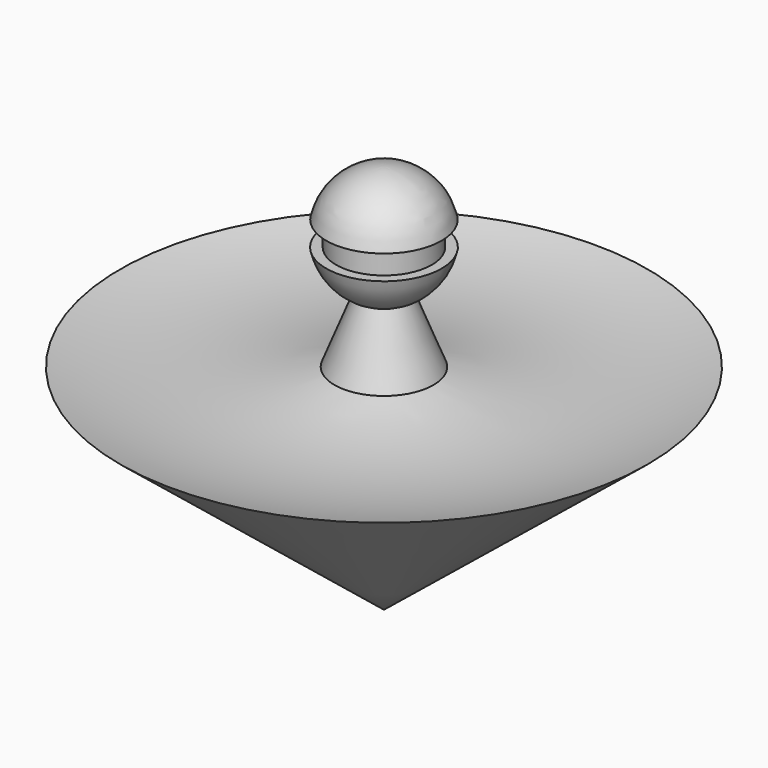
from build123d import *


with BuildPart() as f1:
    # F0 (on Front) → F1 (revolve)
    with BuildSketch(Plane.XZ):
        with BuildLine():
            Line((-41.350949, 15.48482), (-43.916382, 21.997772))
            ThreePointArc((-43.916382, 21.997772), (-41.694805, 23.730102), (-40.499528, 26.281119))
            Line((-40.499528, 26.281119), (-40.512723, 26.281119))
            Line((-40.512723, 26.281119), (-41.512723, 26.281119))
            Line((-41.512723, 26.281119), (-41.512723, 28.781119))
            Line((-41.512723, 28.781119), (-40.512723, 28.781119))
            ThreePointArc((-40.512723, 28.781119), (-42.625913, 32.205739), (-46.420603, 33.545113))
            Line((-46.420603, 33.545113), (-46.420603, -6.454887))
            Line((-46.420603, -6.454887), (-19.350949, 15.48482))
            ThreePointArc((-19.350949, 15.48482), (-30.350949, 13.892111), (-41.350949, 15.48482))
        make_face()
    revolve(axis=Axis((-46.420603, 0, 13.545113), (0, 0, -1)))


solid = f1.part
